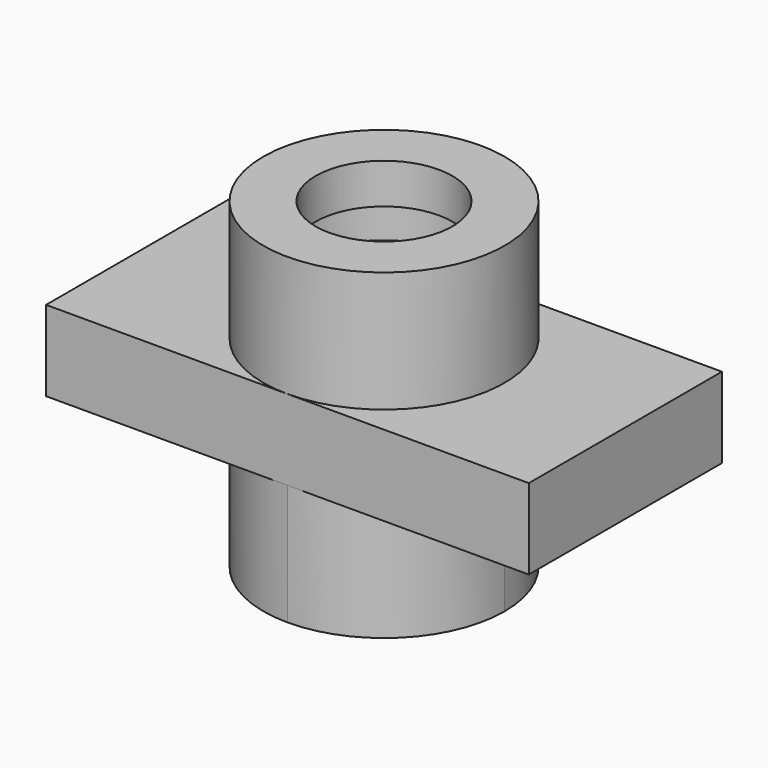
from build123d import *

# Parameters (mm, degrees)
F1_DEPTH  = 19.05
F3_FACE_R = 10.795
F4_DEPTH  = 25.4
F5_R      = 10.795
F6_DEPTH  = 19.05


with BuildPart() as f1:
    # F0 (on Front) → F1 (new body, symmetric)
    with BuildSketch(Plane.XZ):
        Polygon((-38.1, 0), (0, 0), (38.1, 0), (38.1, 12.7), (-38.1, 12.7), align=None)
    extrude(amount=F1_DEPTH, both=True)

    # F2 (on Front) → F3 (revolve)
    with BuildSketch(Plane.XZ):
        Polygon((-19.05, 31.75), (-19.05, 12.7), (-10.795, 12.7), (-10.795, 19.05), (-13.97, 19.05), (-13.97, 25.4), (-10.795, 25.4), (-10.795, 31.75), align=None)
    revolve(axis=Axis((0, 0, 15.662436), (0, 0, 1)))

    # F3_face (on face) → F4 (cut)
    with BuildSketch(Plane.XY.offset(12.7)):
        Circle(F3_FACE_R)
    extrude(amount=-F4_DEPTH, mode=Mode.SUBTRACT)

    # F5 (on face) → F6 (join)
    with BuildSketch(Plane(origin=(0, 0, 0), x_dir=(1, 0, 0), z_dir=(0, 0, -1))):
        with BuildLine():
            ThreePointArc((0, -19.05), (13.470384, -13.470384), (19.05, 0))
            ThreePointArc((19.05, 0), (13.470384, 13.470384), (0, 19.05))
            ThreePointArc((0, 19.05), (-19.05, 0), (0, -19.05))
        make_face()
        Circle(F5_R, mode=Mode.SUBTRACT)
    extrude(amount=F6_DEPTH)


solid = f1.part
